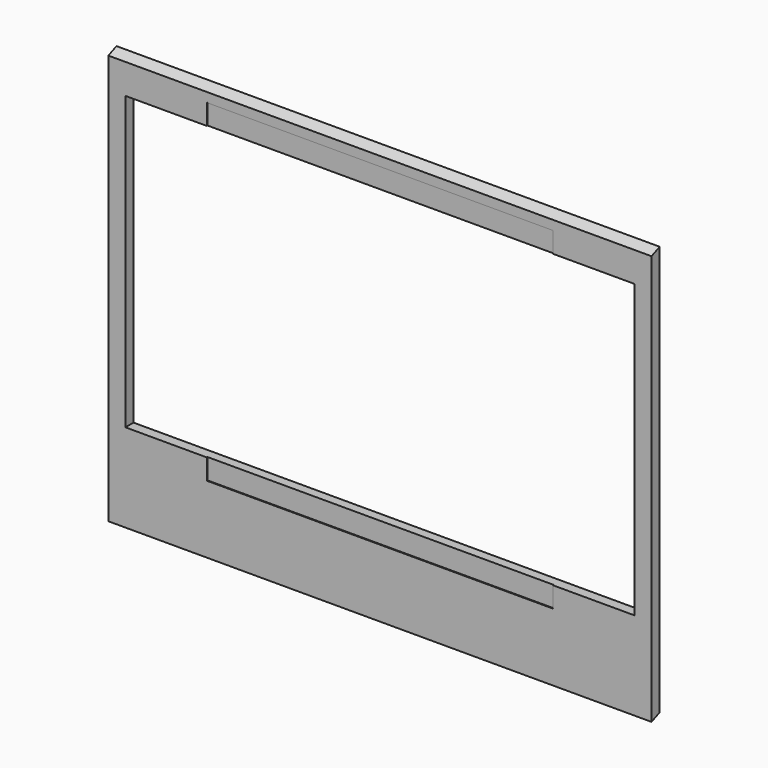
from build123d import *

# Parameters (mm, degrees)
F0_W     = 1016
F0_H     = 774.7
F1_DEPTH = 19.05
F3_DEPTH = 1016.001
F4_W     = 952.1952
F4_H     = 545.7952
F5_DEPTH = 19.051
F7_DEPTH = 1.5875
F9_DEPTH = 1016.001


with BuildPart() as f1:
    # F0 (on Front) → F1 (new body)
    with BuildSketch(Plane.XZ):
        with Locations((-46.856156, 110.373389)):
            Rectangle(F0_W, F0_H)
    extrude(amount=-F1_DEPTH)

    # F2 (on face) → F3 (cut, through all)
    with BuildSketch(Plane.YZ.offset(461.143844)):
        Polygon((19.05, -269.085843), (0, -276.976611), (19.05, -276.976611), align=None)
    extrude(amount=-F3_DEPTH, mode=Mode.SUBTRACT)

    # F4 (on face) → F5 (cut, through all)
    with BuildSketch(Plane.XZ):
        with Locations((-46.856156, 160.995589)):
            Rectangle(F4_W, F4_H)
    extrude(amount=-F5_DEPTH, mode=Mode.SUBTRACT)

    # F6 (on face) → F7 (cut)
    with BuildSketch(Plane.XZ):
        Polygon((276.993844, 472.323389), (-46.856156, 472.323389), (-370.706156, 472.323389), (-370.706156, 433.893189), (276.993844, 433.893189), align=None)
        Polygon((276.993844, -111.902011), (-370.706156, -111.902011), (-370.706156, -150.332211), (-46.856156, -150.332211), (276.993844, -150.332211), align=None)
        Polygon((276.993844, 472.323389), (-46.856156, 472.323389), (-370.706156, 472.323389), (-370.706156, 433.893189), (276.993844, 433.893189), align=None)
    extrude(amount=-F7_DEPTH, mode=Mode.SUBTRACT)

    # F8 (on face) → F9 (cut, through all)
    with BuildSketch(Plane.YZ.offset(461.143844)):
        Polygon((19.05, 497.723389), (0, 497.723389), (0, 489.832621), align=None)
    extrude(amount=-F9_DEPTH, mode=Mode.SUBTRACT)


solid = f1.part
